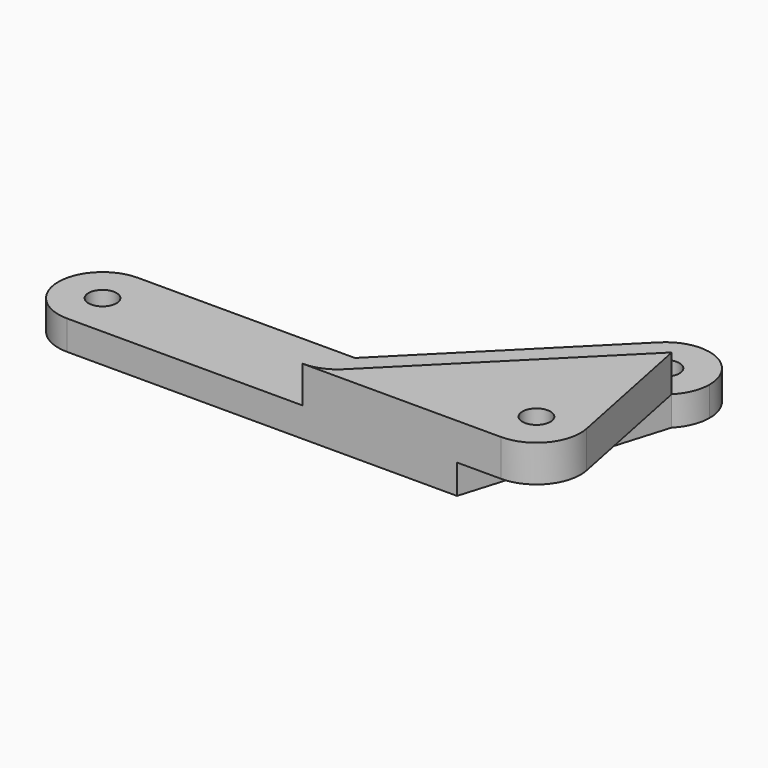
from build123d import *

# Parameters (mm, degrees)
F0_R     = 1.9
F1_DEPTH = 4
F2_R     = 1.9
F3_DEPTH = 5
F5_DEPTH = 4


with BuildPart() as f1:
    # F0 (on Top) → F1 (new body)
    with BuildSketch(Plane.XY):
        with BuildLine():
            Line((20.5060966544, 20.5060966544), (0, 0))
            Line((0, 0), (-26, 0))
            ThreePointArc((-26, 0), (-27.7573593129, -4.2426406871), (-32, -6))
            Line((-32, -6), (0, -6))
            ThreePointArc((0, -6), (2.2961005942, -5.5432771951), (4.2426406871, -4.2426406871))
            Line((4.2426406871, -4.2426406871), (28.9913780286, 20.5060966544))
            ThreePointArc((28.9913780286, 20.5060966544), (24.7487373415, 18.7487373415), (20.5060966544, 20.5060966544))
        make_face()
        with BuildLine():
            Line((-26, 0), (0, 0))
            Line((0, 0), (20.5060966544, 20.5060966544))
            ThreePointArc((20.5060966544, 20.5060966544), (18.7487373415, 24.7487373415), (20.5060966544, 28.9913780286))
            Line((20.5060966544, 28.9913780286), (-2.4852813742, 6))
            Line((-2.4852813742, 6), (-32, 6))
            ThreePointArc((-32, 6), (-27.7573593129, 4.2426406871), (-26, 0))
        make_face()
        with BuildLine():
            ThreePointArc((-32, -6), (-27.7573593129, -4.2426406871), (-26, 0))
            ThreePointArc((-26, 0), (-27.7573593129, 4.2426406871), (-32, 6))
            ThreePointArc((-32, 6), (-38, 0), (-32, -6))
        make_face()
        with Locations((-32, 0)):
            Circle(F0_R, mode=Mode.SUBTRACT)
        with BuildLine():
            ThreePointArc((20.5060966544, 28.9913780286), (18.7487373415, 24.7487373415), (20.5060966544, 20.5060966544))
            ThreePointArc((20.5060966544, 20.5060966544), (24.7487373415, 18.7487373415), (28.9913780286, 20.5060966544))
            ThreePointArc((28.9913780286, 20.5060966544), (30.2920145366, 22.4526367473), (30.7487373415, 24.7487373415))
            ThreePointArc((30.7487373415, 24.7487373415), (27.0448379357, 30.2920145366), (20.5060966544, 28.9913780286))
        make_face()
        with BuildLine():
            ThreePointArc((26.6487373415, 24.7487373415), (25.475835863, 22.9933662298), (23.4052344573, 23.4052344573))
            ThreePointArc((23.4052344573, 23.4052344573), (24.02163882, 26.5041084533), (26.6487373415, 24.7487373415))
        make_face(mode=Mode.SUBTRACT)
    extrude(amount=F1_DEPTH)

    # F2 (on face) → F3 (join)
    with BuildSketch(Plane.XY.offset(4)):
        with BuildLine():
            Line((28.9913780286, 20.5060966544), (4.2426406871, -4.2426406871))
            ThreePointArc((4.2426406871, -4.2426406871), (2.2961005942, -5.5432771951), (0, -6))
            Line((0, -6), (27, -6))
            ThreePointArc((27, -6), (31.6425330327, -3.8009060814), (32.8819440125, 1.1843709867))
            Line((32.8819440125, 1.1843709867), (28.9913780286, 20.5060966544))
        make_face()
        with Locations((27, 0)):
            Circle(F2_R, mode=Mode.SUBTRACT)
    extrude(amount=F3_DEPTH)

    # F4 (on face) → F5 (join)
    with BuildSketch(Plane(origin=(0, 0, 4), x_dir=(1, 0, 0), z_dir=(0, 0, -1))):
        with BuildLine():
            ThreePointArc((0, 6), (2.2961005942, 5.5432771951), (4.2426406871, 4.2426406871))
            Line((4.2426406871, 4.2426406871), (28.9913780286, -20.5060966544))
            Line((28.9913780286, -20.5060966544), (21, 6))
            Line((21, 6), (0, 6))
        make_face()
    extrude(amount=F5_DEPTH)


solid = f1.part
